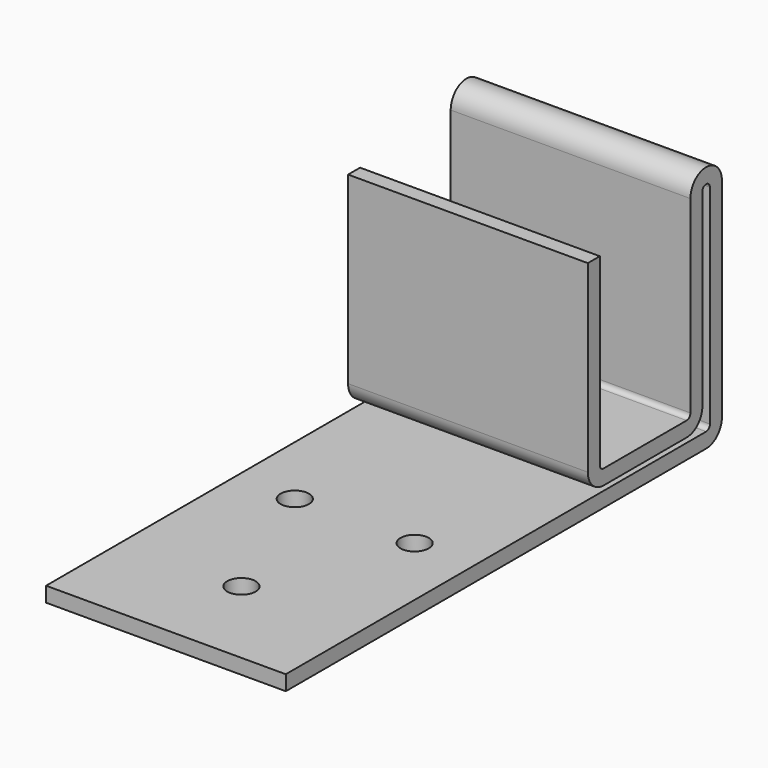
from build123d import *

# Parameters (mm, degrees)
F1_DEPTH = 12.7
F3_D     = 3


with BuildPart() as f1:
    # F0 (on Right) → F1 (new body, symmetric)
    with BuildSketch(Plane.YZ):
        with BuildLine():
            ThreePointArc((6.1, -10.9875), (5.953553, -11.341053), (5.6, -11.4875))
            Line((5.6, -11.4875), (-5.4, -11.4875))
            ThreePointArc((-5.4, -11.4875), (-5.753553, -11.341053), (-5.9, -10.9875))
            Line((-5.9, -10.9875), (-5.9, 8.5125))
            Line((-5.9, 8.5125), (-7.4875, 8.5125))
            Line((-7.4875, 8.5125), (-7.4875, -10.9875))
            ThreePointArc((-7.4875, -10.9875), (-6.876085, -12.463585), (-5.4, -13.075))
            Line((-5.4, -13.075), (5.6, -13.075))
            ThreePointArc((5.6, -13.075), (7.076085, -12.463585), (7.6875, -10.9875))
            Line((7.6875, -10.9875), (7.6875, 9.0125))
            ThreePointArc((7.6875, 9.0125), (8.1875, 9.5125), (8.6875, 9.0125))
            Line((8.6875, 9.0125), (8.6875, -13.075))
            ThreePointArc((8.6875, -13.075), (8.541053, -13.428553), (8.1875, -13.575))
            Line((8.1875, -13.575), (-47.4875, -13.575))
            Line((-47.4875, -13.575), (-47.4875, -15.1625))
            Line((-47.4875, -15.1625), (8.1875, -15.1625))
            ThreePointArc((8.1875, -15.1625), (9.663585, -14.551085), (10.275, -13.075))
            Line((10.275, -13.075), (10.275, 9.0125))
            ThreePointArc((10.275, 9.0125), (8.1875, 11.1), (6.1, 9.0125))
            Line((6.1, 9.0125), (6.1, -10.9875))
        make_face()
    extrude(amount=F1_DEPTH, both=True)

    # F3 (through all)
    with Locations(Plane.XY.offset(-13.575)):
        with Locations((-6.35, -22.4875), (6.35, -22.4875), (0, -37.4875)):
            Hole(F3_D / 2)


solid = f1.part
